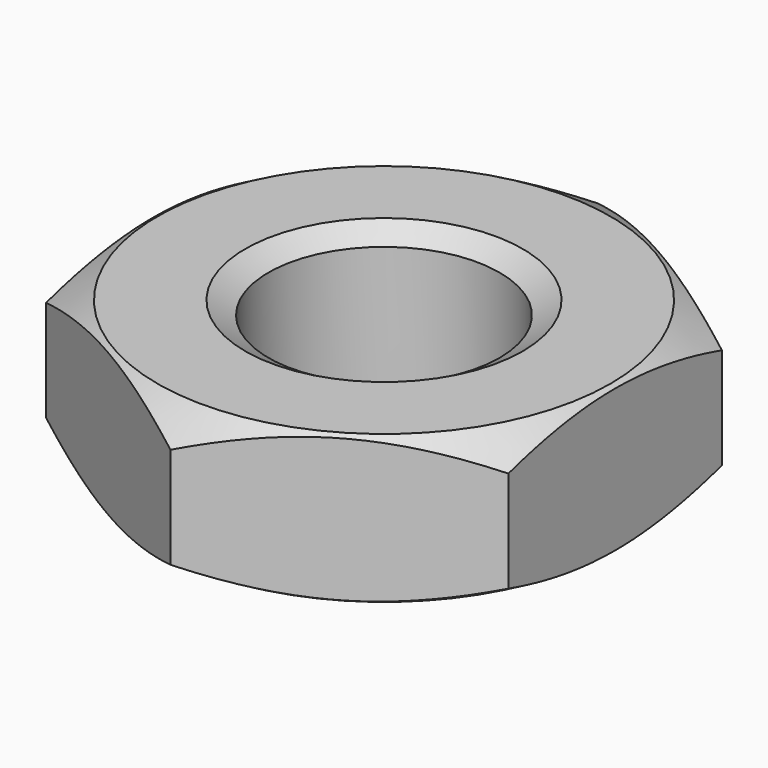
from build123d import *

# Parameters (mm, degrees)
SKETCH001_R  = 7
POCKET_DEPTH = 3.2


with BuildPart() as part:
    # Sketch → Revolution (revolve)
    with BuildSketch(Plane.XZ):
        Polygon((3, 0), (2.5, 0.288675), (2.5, 2.911325), (3, 3.2), (4.9, 3.2), (6, 2.564915), (6, 0.635085), (4.9, 0), align=None)
    revolve(axis=Axis((0, 0, 0), (0, 0, 1)))

    # Sketch001 → Pocket (cut)
    with BuildSketch(Plane(origin=(0, 0, 3.2), x_dir=(-1, 0, 0), z_dir=(0, 0, 1))):
        Circle(SKETCH001_R)
        Polygon((-5, 2.886751), (-5, -2.886751), (0, -5.773503), (5, -2.886751), (5, 2.886751), (0, 5.773503), align=None, mode=Mode.SUBTRACT)
    extrude(amount=-POCKET_DEPTH, mode=Mode.SUBTRACT)


solid = part.part
